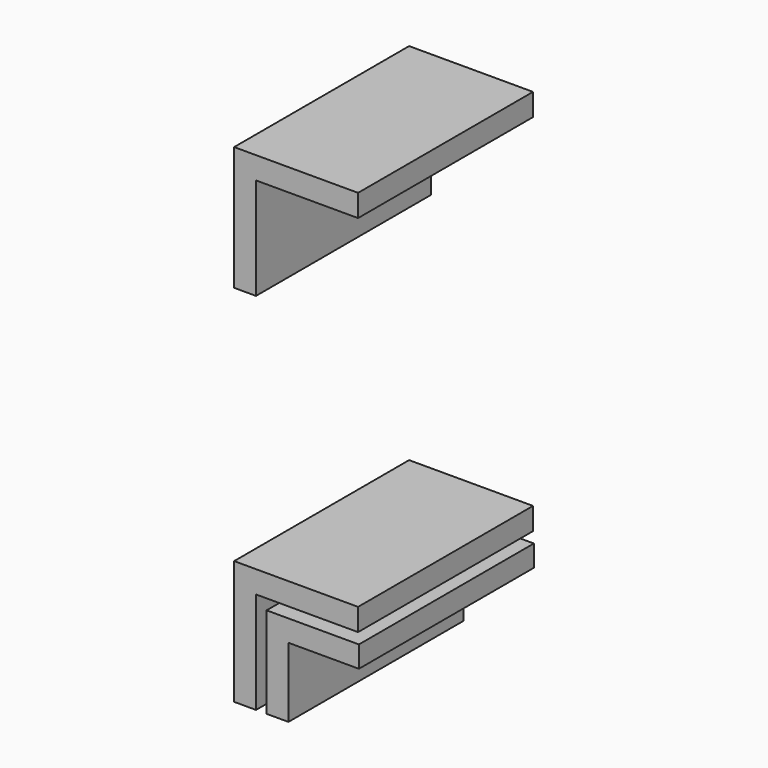
from build123d import *

# Parameters (mm, degrees)
F0_W     = 7.62
F0_H     = 24.2795273662
F0_W_2   = 35.56
F0_H_2   = 7.747
F0_H_3   = 0.1518856734
F1_DEPTH = 76.2
F0_W_3   = 24.257
F0_H_4   = 7.3185869604


with BuildPart() as f1:
    # F0 (on Front) → F1 (new body)
    with BuildSketch(Plane.XZ):
        with Locations((-3.81, 12.1397636831)):
            Rectangle(F0_W, F0_H)
        with Locations((17.78, 39.3065)):
            Rectangle(F0_W_2, F0_H_2)
        with Locations((-3.81, 24.3554702029)):
            Rectangle(F0_W, F0_H_3)
        Polygon((-7.62, 24.4314130396), (0, 24.4314130396), (0, 35.433), (0, 43.18), (-7.62, 43.18), align=None)
    extrude(amount=F1_DEPTH)


with BuildPart() as f1b:
    # F0 (on Front) → F1, piece 2 (new body)
    with BuildSketch(Plane.XZ):
        with Locations((7.493, 12.1397636831)):
            Rectangle(F0_W, F0_H)
        Polygon((11.303, 24.4314130396), (11.303, 24.2795273662), (35.8546562493, 24.2795273662), (35.8546562493, 31.75), (35.56, 31.75), (35.56, 24.4314130396), align=None)
        with Locations((23.4315, 28.0907065198)):
            Rectangle(F0_W_3, F0_H_4)
        with Locations((7.493, 24.3554702029)):
            Rectangle(F0_W, F0_H_3)
        with Locations((7.493, 28.0907065198)):
            Rectangle(F0_W, F0_H_4)
    extrude(amount=F1_DEPTH)


with BuildPart() as f2_1:
    # F2: copy of F1
    add(f1.part.moved(Location((0, 0, 127))))


solid = Compound([f1.part, f1b.part, f2_1.part])
